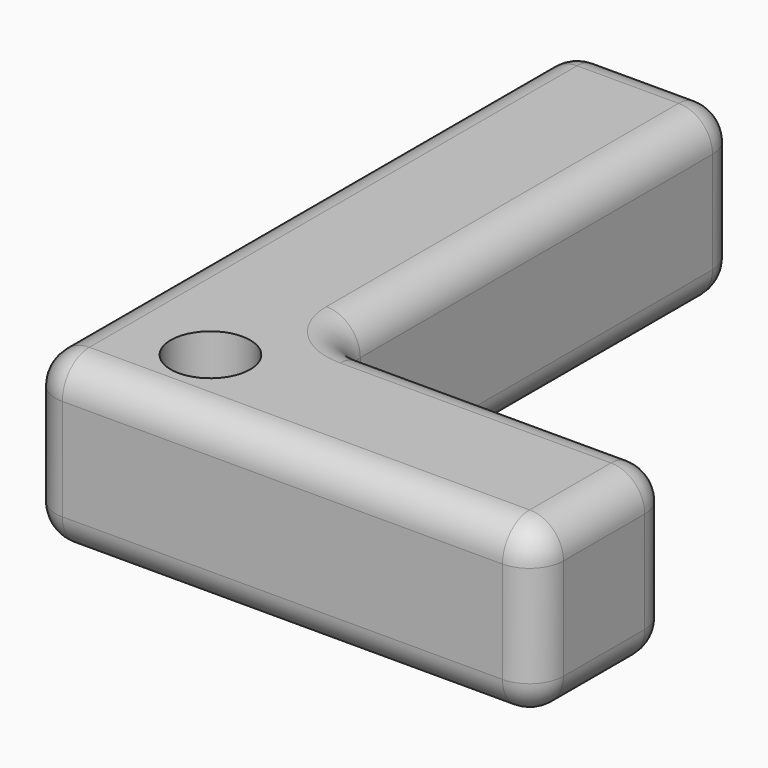
from build123d import *

# Parameters (mm, degrees)
F1_DEPTH = 10
F2_R     = 2
F3_R     = 2.3474
F4_DEPTH = 25


with BuildPart() as f1:
    # F0 (on Top) → F1 (new body)
    with BuildSketch(Plane.XY):
        Polygon((0, 40), (0, 0), (30, 0), (30, 10), (10, 10), (10, 40), align=None)
    extrude(amount=F1_DEPTH)

    # F2
    f2_edges = [f1.edges().sort_by_distance(p)[0] for p in [
        (0, 20, 10),
        (15, 0, 10),
        (30, 5, 10),
        (20, 10, 10),
        (10, 25, 10),
        (5, 40, 10),
        (0, 20, 0),
        (15, 0, 0),
        (30, 5, 0),
        (20, 10, 0),
        (10, 25, 0),
        (5, 40, 0),
        (10, 40, 5),
        (0, 40, 5),
        (10, 10, 5),
        (30, 10, 5),
        (0, 0, 5),
        (30, 0, 5),
    ]]
    fillet(f2_edges, radius=F2_R)

    # F3 (on face) → F4 (cut)
    with BuildSketch(Plane.XY.offset(10)):
        with Locations((6.827323, 4.902695)):
            Circle(F3_R)
    extrude(amount=-F4_DEPTH, mode=Mode.SUBTRACT)


solid = f1.part
